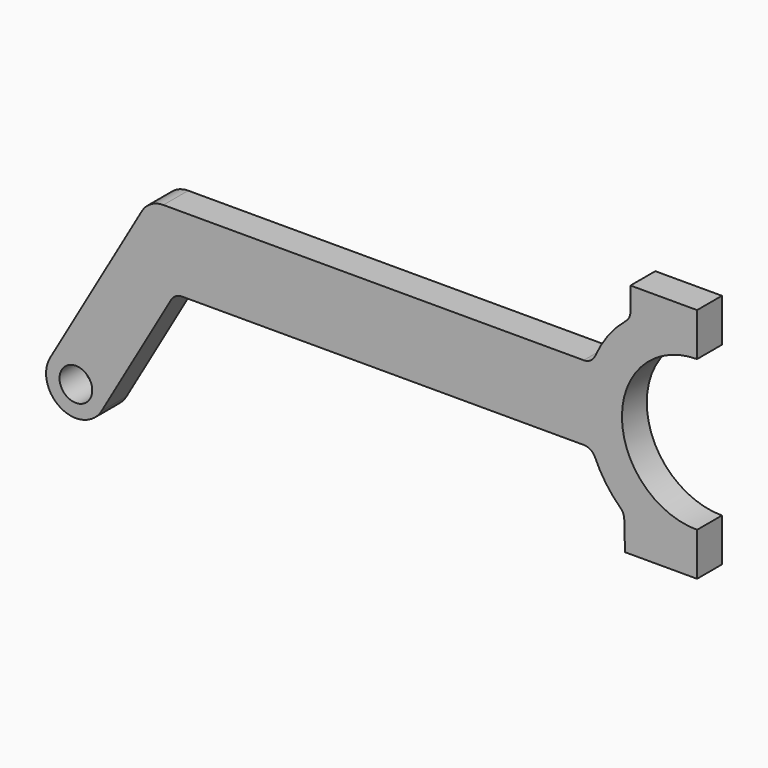
from build123d import *

# Parameters (mm, degrees)
F0_R     = 4.180396
F1_DEPTH = 3.96875


with BuildPart() as f1:
    # F0 (on Front) → F1 (new body, symmetric)
    with BuildSketch(Plane.XZ):
        with BuildLine():
            ThreePointArc((0, -19.2024), (-19.2024, 0), (0, 19.2024))
            Line((0, 19.2024), (0, 30.226))
            Line((0, 30.226), (-17.022172, 30.226))
            Line((-17.022172, 30.226), (-17.022172, 24.332866))
            ThreePointArc((-17.022172, 24.332866), (-17.323239, 22.983372), (-18.169343, 21.889808))
            ThreePointArc((-18.169343, 21.889808), (-22.721865, 17.117405), (-26.05303, 11.4249))
            ThreePointArc((-26.05303, 11.4249), (-27.224045, 10.042081), (-28.960734, 9.525))
            Line((-28.960734, 9.525), (-136.386337, 9.525))
            ThreePointArc((-136.386337, 9.525), (-139.561337, 8.674261), (-141.885599, 6.35))
            Line((-141.885599, 6.35), (-165.349114, -34.29))
            ThreePointArc((-165.349114, -34.29), (-162.56, -44.699114), (-152.150886, -41.91))
            Line((-152.150886, -41.91), (-134.380152, -11.113158))
            ThreePointArc((-134.380152, -11.113158), (-133.217971, -9.950559), (-131.630142, -9.525))
            Line((-131.630142, -9.525), (-28.960734, -9.525))
            ThreePointArc((-28.960734, -9.525), (-27.224045, -10.042081), (-26.05303, -11.4249))
            ThreePointArc((-26.05303, -11.4249), (-23.2839, -16.344684), (-19.597776, -20.620763))
            ThreePointArc((-19.597776, -20.620763), (-18.884031, -21.631899), (-18.611115, -22.839104))
            Line((-18.611115, -22.839104), (-18.417747, -30.226))
            Line((-18.417747, -30.226), (0, -30.226))
            Line((0, -30.226), (0, -19.2024))
        make_face()
        with Locations((-158.75, -38.1)):
            Circle(F0_R, mode=Mode.SUBTRACT)
    extrude(amount=F1_DEPTH, both=True)


solid = f1.part
